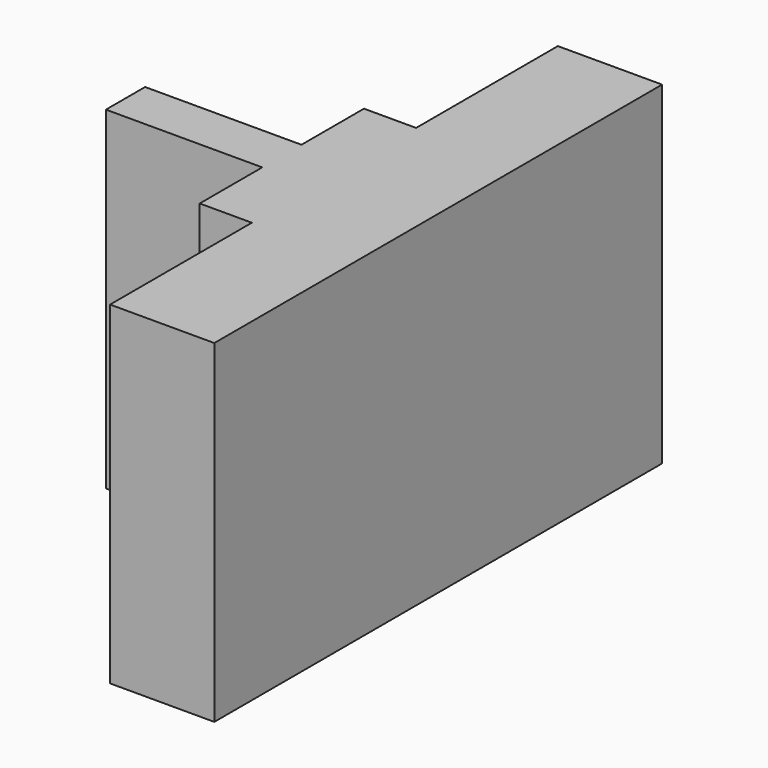
from build123d import *

# Parameters (mm, degrees)
PAD003_DEPTH = 32
SKETCH_W     = 15
SKETCH_H     = 4.7
PAD_DEPTH    = 32


with BuildPart() as part:
    # Sketch005 → Pad003 (new body)
    with BuildSketch(Plane.XY):
        Polygon((-9.465975, 9.85), (-9.465975, -9.85), (-4.465975, -9.85), (-4.465975, -26.85), (5.534025, -26.85), (5.534025, 26.85), (-4.465975, 26.85), (-4.465975, 9.85), align=None)
    extrude(amount=PAD003_DEPTH)

    # Sketch → Pad (join)
    with BuildSketch(Plane.XY):
        with Locations((-16.965975, 0)):
            Rectangle(SKETCH_W, SKETCH_H)
    extrude(amount=PAD_DEPTH)


solid = part.part
